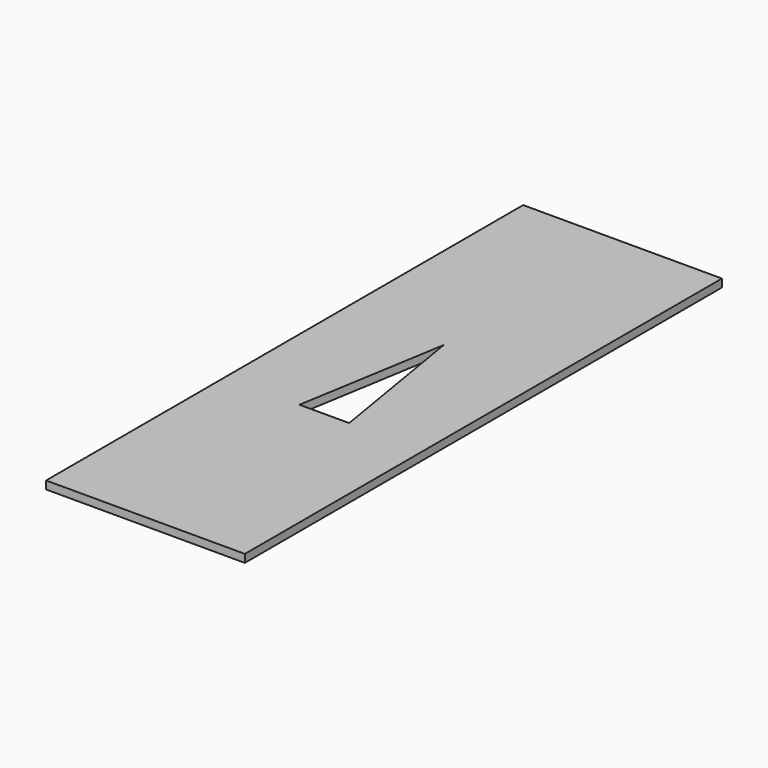
from build123d import *

# Parameters (mm, degrees)
PAD002_DEPTH      = 2
PAD002_DEPTH_BACK = 2
SKETCH_W          = 25
SKETCH_H          = 75
PAD_DEPTH         = 1


with BuildPart() as body002:
    # Sketch003 → Pad002 (new body, two sides)
    with BuildSketch(Plane.XY) as pad002_sk:
        Polygon((12.5, 46.875), (9.375, 28.125), (15.625, 28.125), align=None)
    extrude(amount=PAD002_DEPTH)
    extrude(pad002_sk.sketch, amount=-PAD002_DEPTH_BACK)


with BuildPart() as body:
    # Sketch → Pad (new body)
    with BuildSketch(Plane.XY):
        with Locations((12.5, 37.5)):
            Rectangle(SKETCH_W, SKETCH_H)
    extrude(amount=PAD_DEPTH)

    # Boolean: cut Body002
    add(body002.part, mode=Mode.SUBTRACT)


solid = body.part
